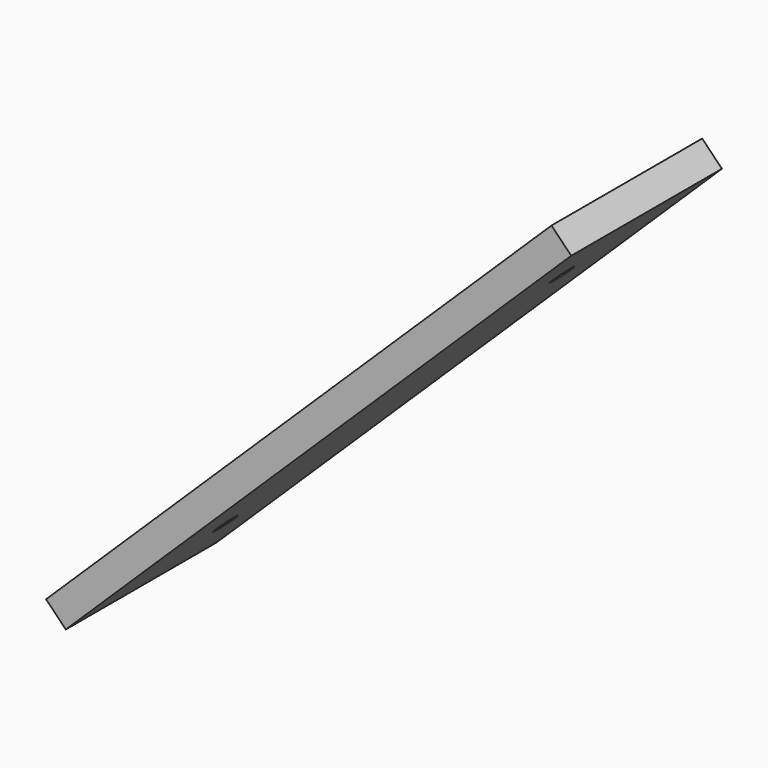
from build123d import *

# Parameters (mm, degrees)
CIRCLE002_AS_DRAWN_R                         = 2.5
EXTRUDE004_DEPTH                             = 10
EXTRUDE004_ONTO_CIRCLE002_ROLL_ANGLE         = 135.690278
EXTRUDE004_ONTO_CIRCLE002_PITCH_ANGLE        = 0
EXTRUDE004_ONTO_CIRCLE002_PLACEMENT_ANGLE    = 90.000001
CIRCLE001_AS_DRAWN_R                         = 2.5
EXTRUDE003_DEPTH                             = 10
EXTRUDE003_ONTO_CIRCLE001_ROLL_ANGLE         = 135.690278
EXTRUDE003_ONTO_CIRCLE001_PITCH_ANGLE        = 0
EXTRUDE003_ONTO_CIRCLE001_PLACEMENT_ANGLE    = 90.000001
RECTANGLE001_AS_DRAWN_W                      = 150
RECTANGLE001_AS_DRAWN_H                      = 6
EXTRUDE002_DEPTH                             = 20
EXTRUDE002_ONTO_RECTANGLE001_ROLL_ANGLE      = 89.999995
EXTRUDE002_ONTO_RECTANGLE001_PITCH_ANGLE     = -44.309723
EXTRUDE002_ONTO_RECTANGLE001_PLACEMENT_ANGLE = 3e-06


with BuildPart() as extrude004:
    # Circle002 as drawn → Extrude004 (new)
    with BuildSketch(Plane.XY):
        Circle(CIRCLE002_AS_DRAWN_R)
    extrude(amount=-EXTRUDE004_DEPTH)


with BuildPart() as extrude004_1:
    # Extrude004 onto Circle002 roll: moved
    add(extrude004.part.rotate(Axis((0, 0, 0), (1, 0, 0)), EXTRUDE004_ONTO_CIRCLE002_ROLL_ANGLE))


with BuildPart() as extrude004_2:
    # Extrude004 onto Circle002 pitch: moved
    add(extrude004_1.part.rotate(Axis((0, 0, 0), (0, 1, 0)), EXTRUDE004_ONTO_CIRCLE002_PITCH_ANGLE))


with BuildPart() as extrude004_3:
    # Extrude004 onto Circle002 placement: moved
    add(extrude004_2.part.moved(Location((53.611526, -9.999937, 1187.461103))).rotate(Axis((53.611526, -9.999937, 1187.461103), (0, 0, 1)), EXTRUDE004_ONTO_CIRCLE002_PLACEMENT_ANGLE))


with BuildPart() as compound001:
    # Circle001 as drawn → Extrude003 (new)
    with BuildSketch(Plane.XY):
        Circle(CIRCLE001_AS_DRAWN_R)
    extrude(amount=-EXTRUDE003_DEPTH)


with BuildPart() as compound001_1:
    # Extrude003 onto Circle001 roll: moved
    add(compound001.part.rotate(Axis((0, 0, 0), (1, 0, 0)), EXTRUDE003_ONTO_CIRCLE001_ROLL_ANGLE))


with BuildPart() as compound001_2:
    # Extrude003 onto Circle001 pitch: moved
    add(compound001_1.part.rotate(Axis((0, 0, 0), (0, 1, 0)), EXTRUDE003_ONTO_CIRCLE001_PITCH_ANGLE))


with BuildPart() as compound001_3:
    # Extrude003 onto Circle001 placement: moved
    add(compound001_2.part.moved(Location((125.168938, -9.99992, 1257.314767))).rotate(Axis((125.168938, -9.99992, 1257.314767), (0, 0, 1)), EXTRUDE003_ONTO_CIRCLE001_PLACEMENT_ANGLE))

    # Compound001: union Extrude004
    add(extrude004_3.part)


with BuildPart() as compound001_4:
    # Compound001 placement: moved
    add(compound001_3.part.moved(Location((0, -401.000072, 0))))


with BuildPart() as cut001:
    # Rectangle001 as drawn → Extrude002 (new, symmetric)
    with BuildSketch(Plane.XY):
        with Locations((75, 3)):
            Rectangle(RECTANGLE001_AS_DRAWN_W, RECTANGLE001_AS_DRAWN_H)
    extrude(amount=EXTRUDE002_DEPTH, both=True)


with BuildPart() as cut001_1:
    # Extrude002 onto Rectangle001 roll: moved
    add(cut001.part.rotate(Axis((0, 0, 0), (1, 0, 0)), EXTRUDE002_ONTO_RECTANGLE001_ROLL_ANGLE))


with BuildPart() as cut001_2:
    # Extrude002 onto Rectangle001 pitch: moved
    add(cut001_1.part.rotate(Axis((0, 0, 0), (0, 1, 0)), EXTRUDE002_ONTO_RECTANGLE001_PITCH_ANGLE))


with BuildPart() as cut001_3:
    # Extrude002 onto Rectangle001 placement: moved
    add(cut001_2.part.moved(Location((35.72217, -9.99993, 1169.997685))).rotate(Axis((35.72217, -9.99993, 1169.997685), (0, 0, 1)), EXTRUDE002_ONTO_RECTANGLE001_PLACEMENT_ANGLE))


with BuildPart() as cut001_4:
    # Extrude002 placement: moved
    add(cut001_3.part.moved(Location((0, -401.000072, 0))))

    # Cut001: cut Compound001
    add(compound001_4.part, mode=Mode.SUBTRACT)


solid = cut001_4.part
